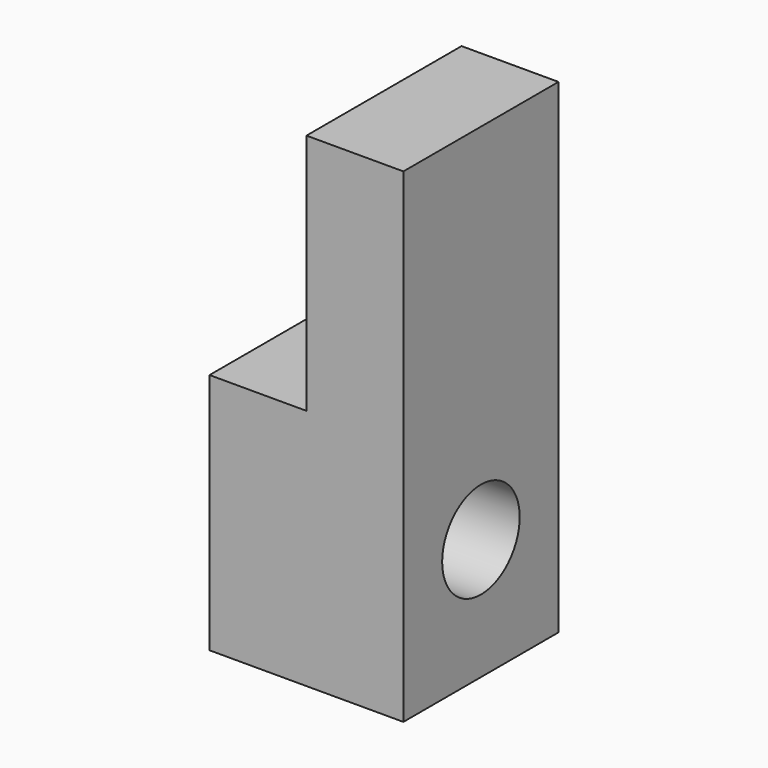
from build123d import *

# Parameters (mm, degrees)
F0_W     = 20
F0_H     = 20
F1_DEPTH = 50
F2_W     = 10
F2_H     = 20
F3_DEPTH = 25
F4_R     = 5
F5_DEPTH = 50


with BuildPart() as f1:
    # F0 (on Top) → F1 (new body)
    with BuildSketch(Plane.XY):
        Rectangle(F0_W, F0_H)
    extrude(amount=F1_DEPTH)

    # F2 (on face) → F3 (cut)
    with BuildSketch(Plane.XY.offset(50)):
        with Locations((-5, 0)):
            Rectangle(F2_W, F2_H)
    extrude(amount=-F3_DEPTH, mode=Mode.SUBTRACT)

    # F4 (on face) → F5 (cut)
    with BuildSketch(Plane(origin=(-10, 0, 0), x_dir=(0, -1, 0), z_dir=(-1, 0, 0))):
        with Locations((0, 12.5)):
            Circle(F4_R)
    extrude(amount=-F5_DEPTH, mode=Mode.SUBTRACT)


solid = f1.part
